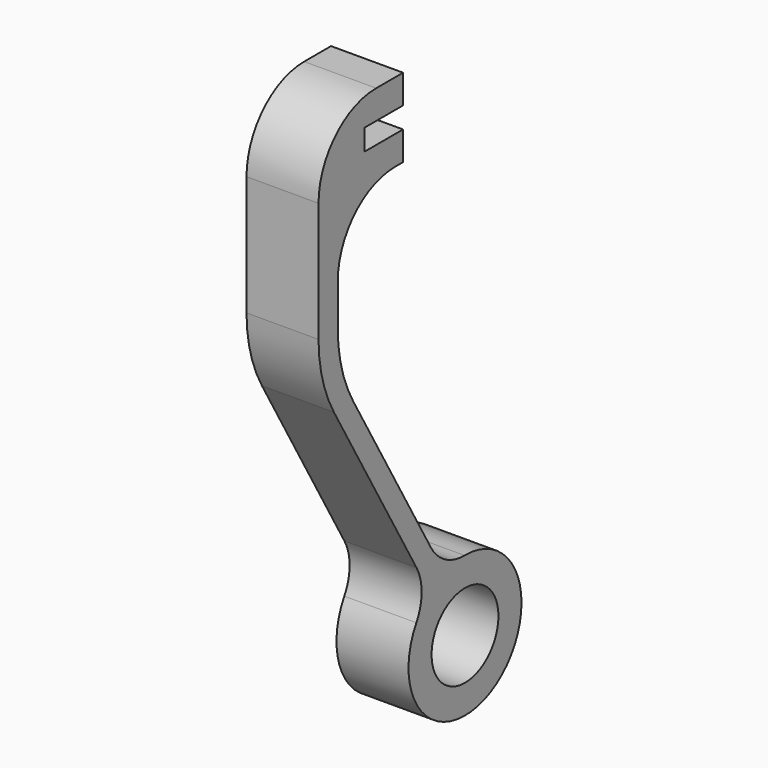
from build123d import *

# Parameters (mm, degrees)
F0_R     = 4.35
F1_DEPTH = 7.5
F2_R     = 7.5


with BuildPart() as f1:
    # F0 (on Right) → F1 (new body)
    with BuildSketch(Plane.YZ):
        with BuildLine():
            Line((0, 15.8), (0, 18.8))
            Line((0, 18.8), (-5, 18.8))
            Line((-5, 18.8), (-5, 21))
            Line((-5, 21), (0, 21))
            Line((0, 21), (0, 24))
            Line((0, 24), (-11, 24))
            Line((-11, 24), (-11, 4.019238))
            ThreePointArc((-11, 4.019238), (-10.488887, 0.136952), (-8.990381, -3.480762))
            Line((-8.990381, -3.480762), (1.750865, -22.085146))
            ThreePointArc((1.750865, -22.085146), (2.420692, -24.606707), (1.729144, -27.122397))
            ThreePointArc((1.729144, -27.122397), (11.7375, -37.217442), (7.999113, -23.502428))
            ThreePointArc((7.999113, -23.502428), (5.474687, -22.843481), (3.625865, -21.002614))
            Line((3.625865, -21.002614), (-6.490381, -3.480762))
            ThreePointArc((-6.490381, -3.480762), (-7.988887, 0.136952), (-8.5, 4.019238))
            Line((-8.5, 4.019238), (-8.5, 15.8))
            Line((-8.5, 15.8), (0, 15.8))
        make_face()
        with Locations((8.0625, -30.852155)):
            Circle(F0_R, mode=Mode.SUBTRACT)
    extrude(amount=F1_DEPTH)

    # F2
    f2_edges = [f1.edges().sort_by_distance(p)[0] for p in [
        (3.75, -11, 24),
        (3.75, -8.5, 15.8),
    ]]
    fillet(f2_edges, radius=F2_R)


solid = f1.part
